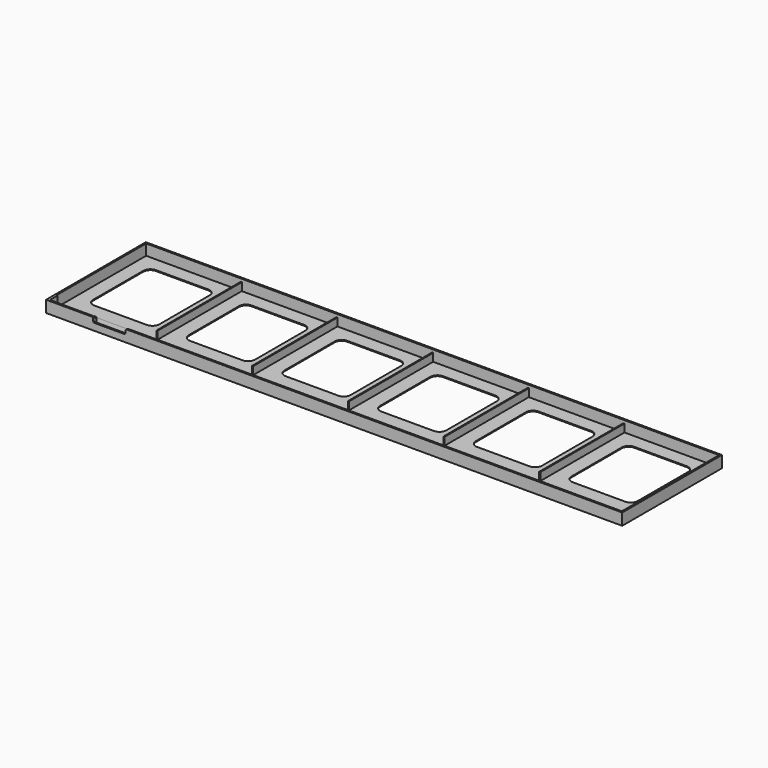
from build123d import *

# Parameters (mm, degrees)
F1_DEPTH  = 0.5
F0_W      = 328.2
F0_H      = 8.5
F2_DEPTH  = 0.8
F0_W_2    = 330
F0_H_2    = 71.4
F3_DEPTH  = 6.7
F0_W_3    = 0.6
F0_H_3    = 60.3
F4_DEPTH  = 5
F6_DEPTH  = 5.9
F7_W      = 18.5
F7_H      = 2.7
F8_DEPTH  = 0.9
F9_R      = 0.75
F10_W     = 0.6
F10_H     = 1.5
F11_DEPTH = 5
F10_H_2   = 3
F12_DEPTH = 3
F13_R     = 1
F14_W     = 1.5
F14_H     = 0.4
F15_DEPTH = 0.6
F16_R     = 0.25


with BuildPart() as f1:
    # F0 (on Top) → F1 (new body)
    with BuildSketch(Plane.XY):
        Polygon((-164.1, 34.8), (-164.1, -26.3), (164.1, -26.3), (164.1, 34.8), (109.9, 34.8), (109.9, -25.5), (109.3, -25.5), (109.3, 34.8), (55.1, 34.8), (55.1, -25.5), (54.5, -25.5), (54.5, 34.8), (0.3, 34.8), (0.3, -25.5), (-0.3, -25.5), (-0.3, 34.8), (-54.5, 34.8), (-54.5, -25.5), (-55.1, -25.5), (-55.1, 34.8), (-109.3, 34.8), (-109.3, -25.5), (-109.9, -25.5), (-109.9, 34.8), align=None)
        with BuildLine():
            ThreePointArc((-156, 22.7), (-154.8284271247, 25.5284271247), (-152, 26.7))
            Line((-152, 26.7), (-122, 26.7))
            ThreePointArc((-122, 26.7), (-119.1715728753, 25.5284271247), (-118, 22.7))
            Line((-118, 22.7), (-118, -13.3))
            ThreePointArc((-118, -13.3), (-119.1715728753, -16.1284271247), (-122, -17.3))
            Line((-122, -17.3), (-152, -17.3))
            ThreePointArc((-152, -17.3), (-154.8284271247, -16.1284271247), (-156, -13.3))
            Line((-156, -13.3), (-156, 22.7))
        make_face(mode=Mode.SUBTRACT)
        with BuildLine():
            ThreePointArc((-67.2, 26.7), (-64.3715728753, 25.5284271247), (-63.2, 22.7))
            Line((-63.2, 22.7), (-63.2, -13.3))
            ThreePointArc((-63.2, -13.3), (-64.3715728753, -16.1284271247), (-67.2, -17.3))
            Line((-67.2, -17.3), (-97.2, -17.3))
            ThreePointArc((-97.2, -17.3), (-100.0284271247, -16.1284271247), (-101.2, -13.3))
            Line((-101.2, -13.3), (-101.2, 22.7))
            ThreePointArc((-101.2, 22.7), (-100.0284271247, 25.5284271247), (-97.2, 26.7))
            Line((-97.2, 26.7), (-67.2, 26.7))
        make_face(mode=Mode.SUBTRACT)
        with BuildLine():
            ThreePointArc((-12.4, 26.7), (-9.5715728753, 25.5284271247), (-8.4, 22.7))
            Line((-8.4, 22.7), (-8.4, -13.3))
            ThreePointArc((-8.4, -13.3), (-9.5715728753, -16.1284271247), (-12.4, -17.3))
            Line((-12.4, -17.3), (-42.4, -17.3))
            ThreePointArc((-42.4, -17.3), (-45.2284271247, -16.1284271247), (-46.4, -13.3))
            Line((-46.4, -13.3), (-46.4, 22.7))
            ThreePointArc((-46.4, 22.7), (-45.2284271247, 25.5284271247), (-42.4, 26.7))
            Line((-42.4, 26.7), (-12.4, 26.7))
        make_face(mode=Mode.SUBTRACT)
        with BuildLine():
            ThreePointArc((42.4, 26.7), (45.2284271247, 25.5284271247), (46.4, 22.7))
            Line((46.4, 22.7), (46.4, -13.3))
            ThreePointArc((46.4, -13.3), (45.2284271247, -16.1284271247), (42.4, -17.3))
            Line((42.4, -17.3), (12.4, -17.3))
            ThreePointArc((12.4, -17.3), (9.5715728753, -16.1284271247), (8.4, -13.3))
            Line((8.4, -13.3), (8.4, 22.7))
            ThreePointArc((8.4, 22.7), (9.5715728753, 25.5284271247), (12.4, 26.7))
            Line((12.4, 26.7), (42.4, 26.7))
        make_face(mode=Mode.SUBTRACT)
        with BuildLine():
            ThreePointArc((97.2, 26.7), (100.0284271247, 25.5284271247), (101.2, 22.7))
            Line((101.2, 22.7), (101.2, -13.3))
            ThreePointArc((101.2, -13.3), (100.0284271247, -16.1284271247), (97.2, -17.3))
            Line((97.2, -17.3), (67.2, -17.3))
            ThreePointArc((67.2, -17.3), (64.3715728753, -16.1284271247), (63.2, -13.3))
            Line((63.2, -13.3), (63.2, 22.7))
            ThreePointArc((63.2, 22.7), (64.3715728753, 25.5284271247), (67.2, 26.7))
            Line((67.2, 26.7), (97.2, 26.7))
        make_face(mode=Mode.SUBTRACT)
        with BuildLine():
            ThreePointArc((152, 26.7), (154.8284271247, 25.5284271247), (156, 22.7))
            Line((156, 22.7), (156, -13.3))
            ThreePointArc((156, -13.3), (154.8284271247, -16.1284271247), (152, -17.3))
            Line((152, -17.3), (122, -17.3))
            ThreePointArc((122, -17.3), (119.1715728753, -16.1284271247), (118, -13.3))
            Line((118, -13.3), (118, 22.7))
            ThreePointArc((118, 22.7), (119.1715728753, 25.5284271247), (122, 26.7))
            Line((122, 26.7), (152, 26.7))
        make_face(mode=Mode.SUBTRACT)
    extrude(amount=F1_DEPTH)

    # F0 (on Top) → F2 (join)
    with BuildSketch(Plane.XY):
        with Locations((0, -30.55)):
            Rectangle(F0_W, F0_H)
    extrude(amount=F2_DEPTH)

    # F0 (on Top) → F3 (join)
    with BuildSketch(Plane.XY):
        Rectangle(F0_W_2, F0_H_2)
        Polygon((164.1, -34.8), (-164.1, -34.8), (-164.1, -26.3), (-164.1, 34.8), (-109.9, 34.8), (-109.3, 34.8), (-55.1, 34.8), (-54.5, 34.8), (-0.3, 34.8), (0.3, 34.8), (54.5, 34.8), (55.1, 34.8), (109.3, 34.8), (109.9, 34.8), (164.1, 34.8), (164.1, -26.3), align=None, mode=Mode.SUBTRACT)
    extrude(amount=F3_DEPTH)

    # F0 (on Top) → F4 (join)
    with BuildSketch(Plane.XY):
        with Locations((-109.6, 4.65)):
            Rectangle(F0_W_3, F0_H_3)
        with Locations((-54.8, 4.65)):
            Rectangle(F0_W_3, F0_H_3)
        with Locations((0, 4.65)):
            Rectangle(F0_W_3, F0_H_3)
        with Locations((54.8, 4.65)):
            Rectangle(F0_W_3, F0_H_3)
        with Locations((109.6, 4.65)):
            Rectangle(F0_W_3, F0_H_3)
    extrude(amount=F4_DEPTH)

    # F5 (on face) → F6 (join, through all)
    with BuildSketch(Plane.XY.offset(0.8)):
        with BuildLine():
            Line((-163.6753737487, -29.2), (-164.1, -29.2))
            Line((-164.1, -29.2), (-164.1, -34.8))
            Line((-164.1, -34.8), (-163.5, -34.8))
            Line((-163.5, -34.8), (-163.5, -29.3753737487))
            ThreePointArc((-163.5, -29.3753737487), (-163.5513657817, -29.2513657817), (-163.6753737487, -29.2))
        make_face()
    extrude(amount=F6_DEPTH)

    # F7 (on face) → F8 (cut, through all)
    with BuildSketch(Plane.XZ.offset(35.7)):
        with Locations((-128.75, 5.35)):
            Rectangle(F7_W, F7_H)
    extrude(amount=-F8_DEPTH, mode=Mode.SUBTRACT)

    # F9
    f9_edges = [f1.edges().sort_by_distance(p)[0] for p in [
        (-138, -35.25, 6.7),
        (-119.5, -35.25, 6.7),
        (-138, -35.25, 4),
        (-119.5, -35.25, 4),
    ]]
    fillet(f9_edges, radius=F9_R)

    # F10 (on face) → F11 (join)
    with BuildSketch(Plane.XY.offset(0.8)):
        with Locations((-138.4, -34.05)):
            Rectangle(F10_W, F10_H)
    extrude(amount=F11_DEPTH)

    # F10 (on face) → F12 (join)
    with BuildSketch(Plane.XY.offset(0.8)):
        with Locations((-93.8, -33.3)):
            Rectangle(F10_W, F10_H_2)
        with Locations((-58.2, -33.3)):
            Rectangle(F10_W, F10_H_2)
        with Locations((-49.2, -33.3)):
            Rectangle(F10_W, F10_H_2)
        with Locations((-13.3, -33.3)):
            Rectangle(F10_W, F10_H_2)
        with Locations((1.6, -33.3)):
            Rectangle(F10_W, F10_H_2)
        with Locations((58.7, -33.3)):
            Rectangle(F10_W, F10_H_2)
    extrude(amount=F12_DEPTH)

    # F13
    f13_edges = [f1.edges().sort_by_distance(p)[0] for p in [
        (58.7, -31.8, 3.8),
        (1.6, -31.8, 3.8),
        (-13.3, -31.8, 3.8),
        (-49.2, -31.8, 3.8),
        (-58.2, -31.8, 3.8),
        (-93.8, -31.8, 3.8),
    ]]
    fillet(f13_edges, radius=F13_R)

    # F14 (on face) → F15 (join)
    with BuildSketch(Plane(origin=(-138.7, 0, 0), x_dir=(0, -1, 0), z_dir=(-1, 0, 0))):
        with Locations((34.05, 5.6)):
            Rectangle(F14_W, F14_H)
    extrude(amount=F15_DEPTH)

    # F16
    f16_edges = [f1.edges().sort_by_distance(p)[0] for p in [
        (-138.1, -34.05, 5.8),
    ]]
    fillet(f16_edges, radius=F16_R)


solid = f1.part
